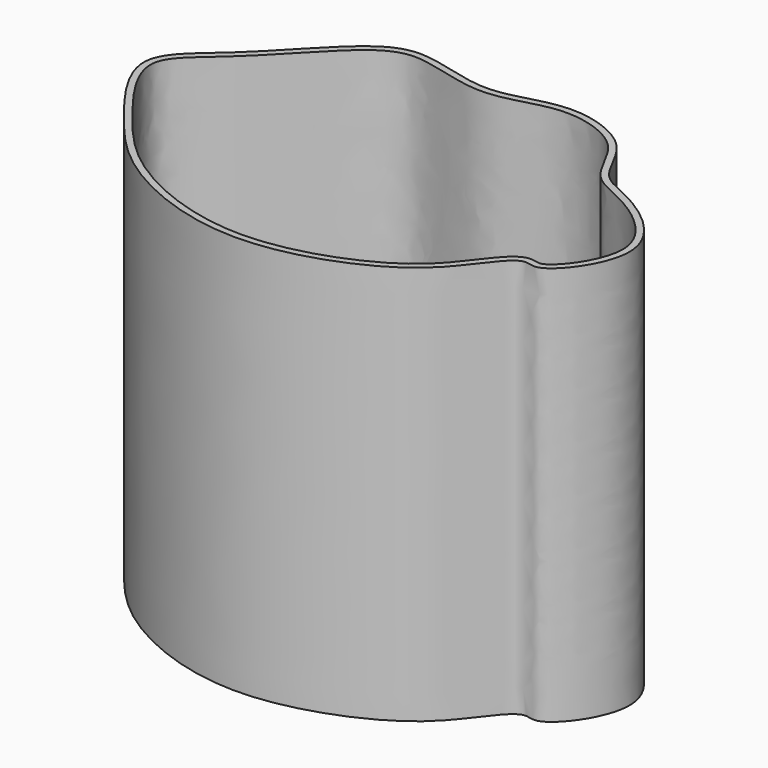
from build123d import *

# Parameters (mm, degrees)
F1_DEPTH = 152.4
F2_T     = -2.54


with BuildPart() as f1:
    # F0 (on Top) → F1 (new body)
    with BuildSketch(Plane.XY):
        with BuildLine():
            add(Edge.make_bspline(
                [(-73.5462679528, 25.4), (-64.5753933884, 33.5035849453), (-49.5053030802, 51.4471362392), (-29.5743718492, 64.4540573463), (0.7622728811, 50.3840467647), (26.0100603901, 64.1604912954), (56.4117205106, 54.1348596003), (62.2044465811, 31.3306708075), (79.3863828178, 27.2000497931), (110.1401629638, 2.7128302034), (86.3737703777, -29.4143470848), (78.3053871107, -22.934333883), (67.9883175464, -36.2586504173), (54.8161535852, -53.6777122126), (2.4124871165, -74.5342114584), (-50.5361630808, -53.4630207913), (-72.2213944234, -27.5892306925), (-98.2405061403, 6.8740057241), (-81.1215722705, 18.5570638309), (-73.5462679528, 25.4)],
                knots=[0, 0, 0, 0, 0.0674968564, 0.1194530313, 0.1805563298, 0.2396888337, 0.2992168751, 0.3495939795, 0.3959802094, 0.4605454473, 0.5215254411, 0.5498852723, 0.5912596239, 0.6445919877, 0.7264949633, 0.8089961822, 0.8764930386, 0.9430034136, 1, 1, 1, 1], degree=3))
        make_face()
    extrude(amount=F1_DEPTH)

    # F2
    f2_openings = [f1.faces().sort_by_distance(p)[0] for p in [
        (3.611478, -1.786257, 152.4),
    ]]
    offset(amount=F2_T, openings=f2_openings)


solid = f1.part
